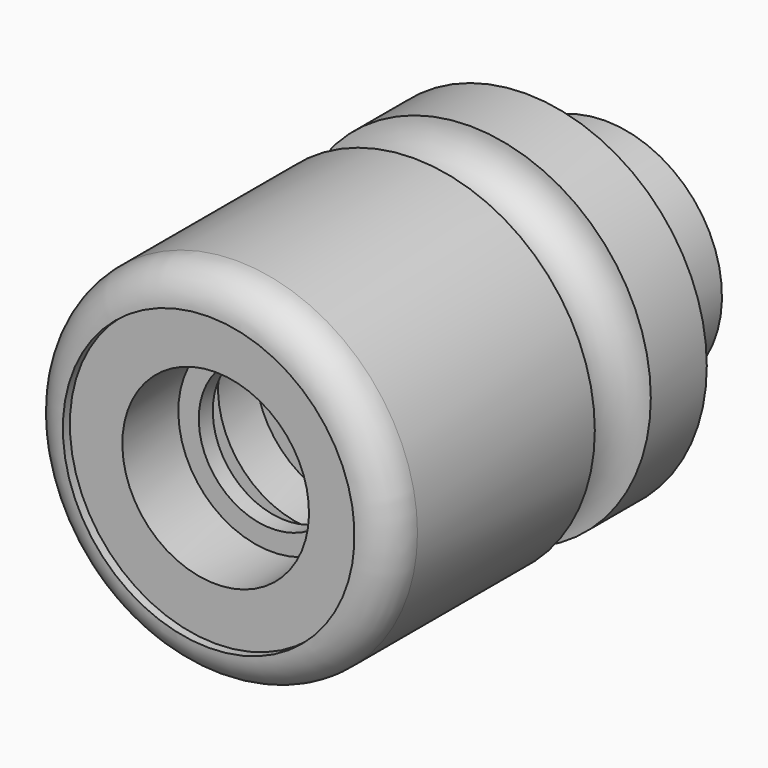
from build123d import *


with BuildPart() as f1:
    # F0 (on Right) → F1 (revolve)
    with BuildSketch(Plane.YZ):
        with BuildLine():
            Line((0, 25), (0, 0))
            Line((0, 0), (88, 0))
            Line((88, 0), (88, 16))
            Line((88, 16), (85, 16))
            Line((85, 16), (85, 20))
            Line((85, 20), (68, 20))
            Line((68, 20), (68, 31))
            Line((68, 31), (56, 31))
            ThreePointArc((56, 31), (50, 25), (44, 31))
            Line((44, 31), (6, 31))
            ThreePointArc((6, 31), (1.757359, 29.242641), (0, 25))
        make_face()
    revolve(axis=Axis((0, 61.81017, 0), (0, 1, 0)))

    # F2 (on Right) → F3 (revolve, cut)
    with BuildSketch(Plane.YZ):
        Polygon((13.5, 12.5), (13.5, 16), (1.5, 16), (1.5, 0), (88, 0), (88, 6), (30, 6), (30, 16), (22, 16), (22, 20.5), (16.5, 20.5), (16.5, 12.5), align=None)
        Polygon((1.5, 0), (1.5, 16), (1.5, 25), (0, 25), (0, 0), align=None)
    revolve(axis=Axis((0, 44, 0), (0, -1, 0)), mode=Mode.SUBTRACT)


solid = f1.part
